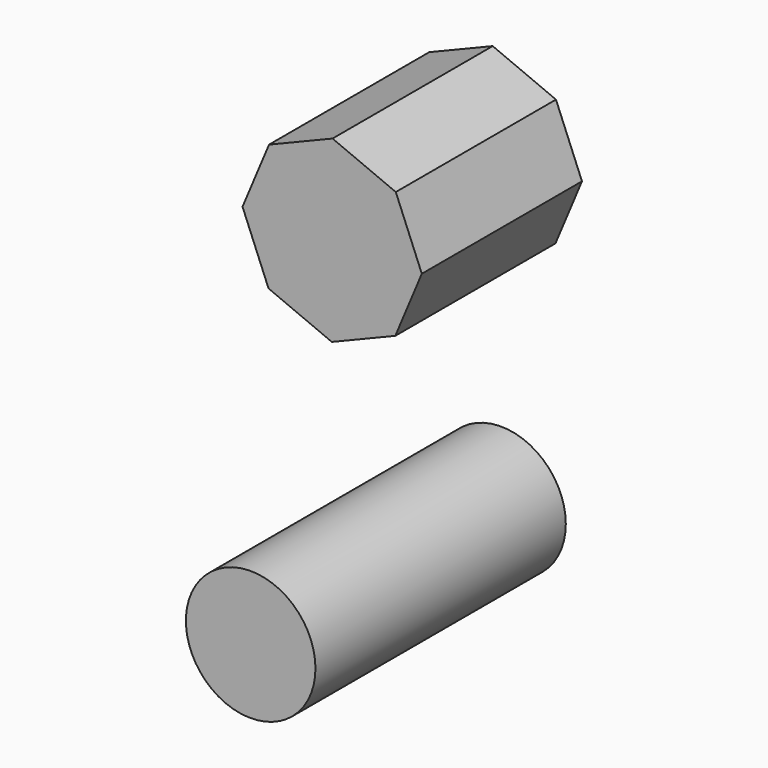
from build123d import *

# Parameters (mm, degrees)
F2_R     = 47.4006605725
F3_DEPTH = 228.9681136608
F1_R     = 38.5077720906
F4_DEPTH = 146.4996039867


with BuildPart() as f3:
    # F2 (on Front) → F3 (new body)
    with BuildSketch(Plane.XZ):
        with Locations((123.5484033823, -127.1795481443)):
            Circle(F2_R)
    extrude(amount=F3_DEPTH)


with BuildPart() as f4:
    # F1 (on Front) → F4 (new body)
    with BuildSketch(Plane.XZ):
        Circle(F1_R)
    extrude(amount=-F4_DEPTH)


with BuildPart() as f4b:
    # F0 (on Front) → F4, piece 2 (new body)
    with BuildSketch(Plane.XZ):
        Polygon((0.2612999241, 65.5892101439), (-46.1938083172, 46.5633422136), (-65.5892101439, 0.2612999241), (-46.5633422136, -46.1938083172), (-0.2612999241, -65.5892101439), (46.1938083172, -46.5633422136), (65.5892101439, -0.2612999241), (46.5633422136, 46.1938083172), align=None)
    extrude(amount=-F4_DEPTH)


solid = Compound([f3.part, f4.part, f4b.part])
